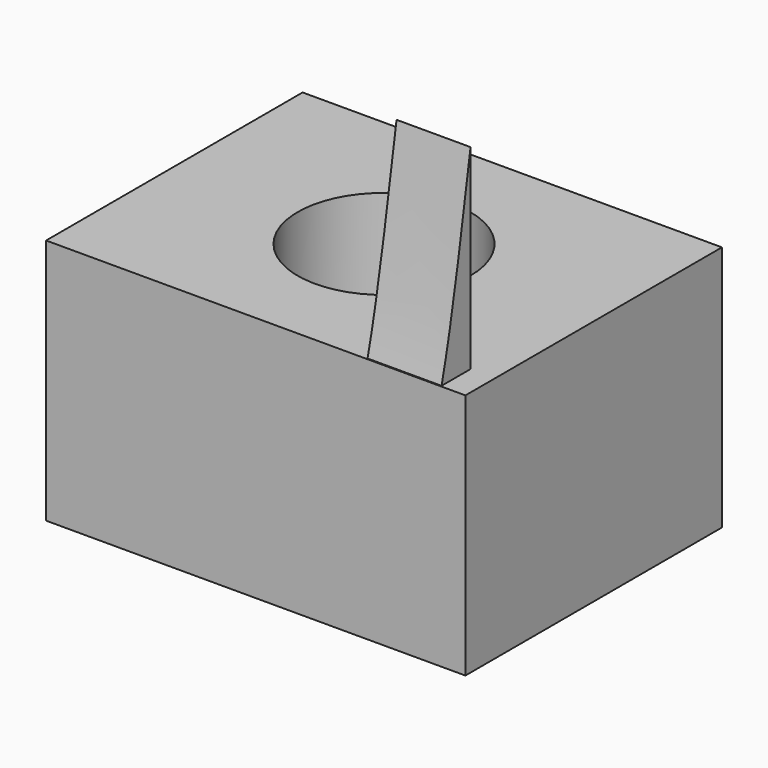
from build123d import *

# Parameters (mm, degrees)
SKETCH_W     = 17
SKETCH_H     = 13
SKETCH_R     = 3.5
PAD_DEPTH    = 10
PAD001_DEPTH = 3


with BuildPart() as obj1:
    # Sketch → Pad (new body)
    with BuildSketch(Plane.XY):
        Rectangle(SKETCH_W, SKETCH_H)
        Circle(SKETCH_R, mode=Mode.SUBTRACT)
    extrude(amount=PAD_DEPTH)


with BuildPart() as obj2:
    # Pad001 base: copy of obj1
    add(obj1.part)

    # Sketch003 → Pad001 (new body)
    with BuildSketch(Plane.YZ.offset(7.5)):
        with BuildLine():
            Line((4.98859, 17.9219), (4.98859, 9.858518))
            Line((4.98859, 9.858518), (6.5, 9.833834))
            add(Edge.make_bspline(
                [(4.98859, 17.9219), (5.5, 14.7982), (5.91318, 12.1235), (6.5, 9.833834)],
                knots=[0, 0, 0, 0, 1, 1, 1, 1], degree=3))
        make_face()
    pad001 = extrude(amount=-PAD001_DEPTH)


with BuildPart() as mirrored:
    # Mirrored base: copy of obj1
    add(obj1.part)

    # Mirrored: Pad001 across Sketch003 V_Axis
    add(pad001.mirror(Plane(origin=(7.5, 0, 0), x_dir=(1, 0, 0), z_dir=(0, 1, 0))))


solid = mirrored.part
